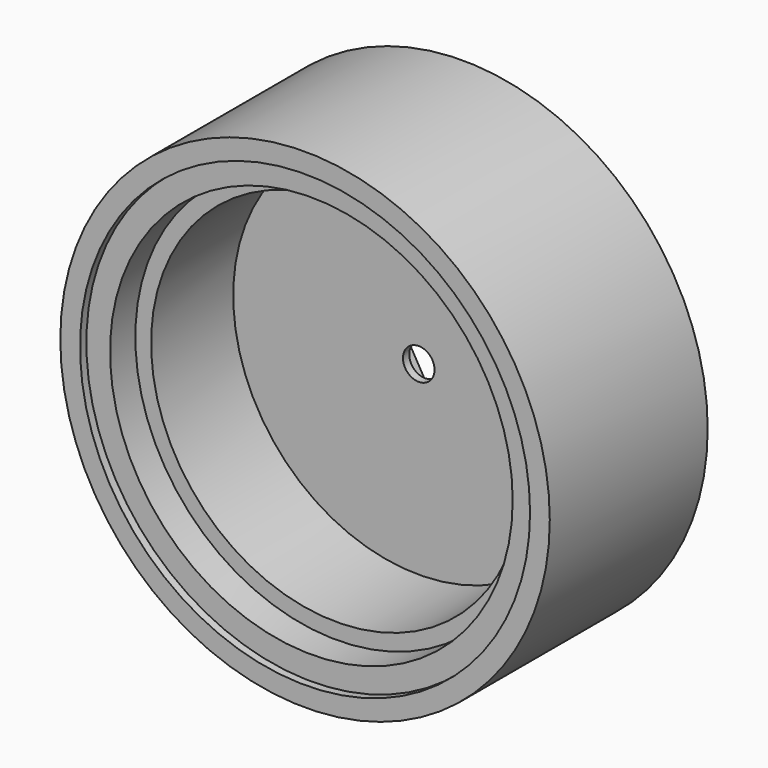
from build123d import *

# Parameters (mm, degrees)
SKETCH012_AS_DRAWN_R                 = 62
EXTRUDE005_DEPTH                     = 50
EXTRUDE005_ONTO_SKETCH012_ROLL_ANGLE = 90
SKETCH013_R                          = 57
POCKET003_DEPTH                      = 2
SKETCH014_R                          = 51
POCKET004_DEPTH                      = 8
SKETCH015_R                          = 47
POCKET005_DEPTH                      = 26
SKETCH016_R                          = 58
POCKET006_DEPTH                      = 2
SKETCH017_R                          = 51
POCKET007_DEPTH                      = 2
POCKET008_DEPTH                      = 9
POCKET009_DEPTH                      = 5
POCKET010_DEPTH                      = 8
SKETCH022_R                          = 4
POCKET011_DEPTH                      = 38.001


with BuildPart() as part:
    # Sketch012 as drawn → Extrude005 (new)
    with BuildSketch(Plane.XY):
        Circle(SKETCH012_AS_DRAWN_R)
    extrude(amount=-EXTRUDE005_DEPTH)


with BuildPart() as part_1:
    # Extrude005 onto Sketch012 roll: moved
    add(part.part.rotate(Axis((0, 0, 0), (1, 0, 0)), EXTRUDE005_ONTO_SKETCH012_ROLL_ANGLE))


with BuildPart() as part_2:
    # Extrude005 onto Sketch012 placement: moved
    add(part_1.part)

    # Sketch013 → Pocket003 (cut)
    with BuildSketch(Plane.XZ):
        Circle(SKETCH013_R)
    extrude(amount=-POCKET003_DEPTH, mode=Mode.SUBTRACT)

    # Sketch014 → Pocket004 (cut)
    with BuildSketch(Plane.XZ.offset(-2)):
        Circle(SKETCH014_R)
    extrude(amount=-POCKET004_DEPTH, mode=Mode.SUBTRACT)

    # Sketch015 → Pocket005 (cut)
    with BuildSketch(Plane.XZ.offset(-10)):
        Circle(SKETCH015_R)
    extrude(amount=-POCKET005_DEPTH, mode=Mode.SUBTRACT)

    # Sketch016 → Pocket006 (cut)
    with BuildSketch(Plane(origin=(0, 50, 0), x_dir=(-1, 0, 0), z_dir=(0, 1, 0))):
        Circle(SKETCH016_R)
    extrude(amount=-POCKET006_DEPTH, mode=Mode.SUBTRACT)

    # Sketch017 → Pocket007 (cut)
    with BuildSketch(Plane(origin=(0, 48, 0), x_dir=(-1, 0, 0), z_dir=(0, 1, 0))):
        Circle(SKETCH017_R)
    extrude(amount=-POCKET007_DEPTH, mode=Mode.SUBTRACT)

    # Sketch019 → Pocket008 (cut)
    with BuildSketch(Plane(origin=(0, 46, 0), x_dir=(-1, 0, 0), z_dir=(0, 1, 0))):
        with BuildLine():
            ThreePointArc((50.641544, 0.353553), (35.708892, 35.708892), (0.353553, 50.641544))
            Line((0.353553, 24.353553), (0.353553, 50.641544))
            ThreePointArc((24.353553, 0.353553), (17.324116, 17.324116), (0.353553, 24.353553))
            Line((24.353553, 0.353553), (50.641544, 0.353553))
        make_face()
        with BuildLine():
            ThreePointArc((0.353553, -24.353553), (17.324116, -17.324116), (24.353553, -0.353553))
            Line((24.353553, -0.353553), (51.353553, -0.353553))
            ThreePointArc((0.353553, -51.353553), (36.415999, -36.415999), (51.353553, -0.353553))
            Line((0.353553, -24.353553), (0.353553, -51.353553))
        make_face()
        with BuildLine():
            ThreePointArc((-24.353553, -0.353553), (-17.324116, -17.324116), (-0.353553, -24.353553))
            Line((-0.353553, -24.353553), (-0.353553, -51.353553))
            ThreePointArc((-51.353553, -0.353553), (-36.415999, -36.415999), (-0.353553, -51.353553))
            Line((-24.353553, -0.353553), (-51.353553, -0.353553))
        make_face()
        with BuildLine():
            ThreePointArc((-0.353553, 24.353553), (-17.324116, 17.324116), (-24.353553, 0.353553))
            Line((-24.353553, 0.353553), (-51.353553, 0.353553))
            ThreePointArc((-0.353553, 51.353553), (-36.415999, 36.415999), (-51.353553, 0.353553))
            Line((-0.353553, 24.353553), (-0.353553, 51.353553))
        make_face()
    extrude(amount=-POCKET008_DEPTH, mode=Mode.SUBTRACT)

    # Sketch020 → Pocket009 (cut)
    with BuildSketch(Plane(origin=(0, 46, 0), x_dir=(-1, 0, 0), z_dir=(0, 1, 0))):
        with BuildLine():
            Line((-24.353553, 0.353553), (-17.35351, 0.353553))
            ThreePointArc((-0.353553, 17.353553), (-12.374341, 12.374353), (-17.35351, 0.353553))
            Line((-0.353553, 17.353553), (-0.353553, 24.353553))
            Line((-0.353553, 24.353553), (-24.353553, 24.353553))
            Line((-24.353553, 24.353553), (-24.353553, 0.353553))
        make_face()
        with BuildLine():
            Line((24.353553, 0.353553), (17.353553, 0.353553))
            ThreePointArc((17.353553, 0.353553), (12.374369, 12.374369), (0.353553, 17.353553))
            Line((0.353553, 17.353553), (0.353553, 24.353553))
            Line((0.353553, 24.353553), (24.353553, 24.353553))
            Line((24.353553, 24.353553), (24.353553, 0.353553))
        make_face()
        with BuildLine():
            Line((-0.353553, -24.353553), (-24.353553, -24.353553))
            Line((-24.353553, -24.353553), (-24.353553, -0.353553))
            Line((-24.353553, -0.353553), (-17.35351, -0.353553))
            ThreePointArc((-17.35351, -0.353553), (-12.374341, -12.374353), (-0.353553, -17.353553))
            Line((-0.353553, -17.353553), (-0.353553, -24.353553))
        make_face()
        with BuildLine():
            Line((0.353553, -24.353553), (24.353553, -24.353553))
            Line((24.353553, -24.353553), (24.353553, -0.353553))
            Line((24.353553, -0.353553), (17.353553, -0.353553))
            ThreePointArc((0.353553, -17.353553), (12.374369, -12.374369), (17.353553, -0.353553))
            Line((0.353553, -17.353553), (0.353553, -24.353553))
        make_face()
    extrude(amount=-POCKET009_DEPTH, mode=Mode.SUBTRACT)

    # Sketch021 → Pocket010 (cut)
    with BuildSketch(Plane(origin=(0, 46, 0), x_dir=(-1, 0, 0), z_dir=(0, 1, 0))):
        Polygon((6, -10.392305), (12, 0), (6, 10.392305), (-6, 10.392305), (-12, 0), (-6, -10.392305), align=None)
    extrude(amount=-POCKET010_DEPTH, mode=Mode.SUBTRACT)

    # Sketch022 → Pocket011 (cut, through all)
    with BuildSketch(Plane(origin=(0, 38, 0), x_dir=(-1, 0, 0), z_dir=(0, 1, 0))):
        Circle(SKETCH022_R)
    extrude(amount=-POCKET011_DEPTH, mode=Mode.SUBTRACT)


solid = part_2.part
